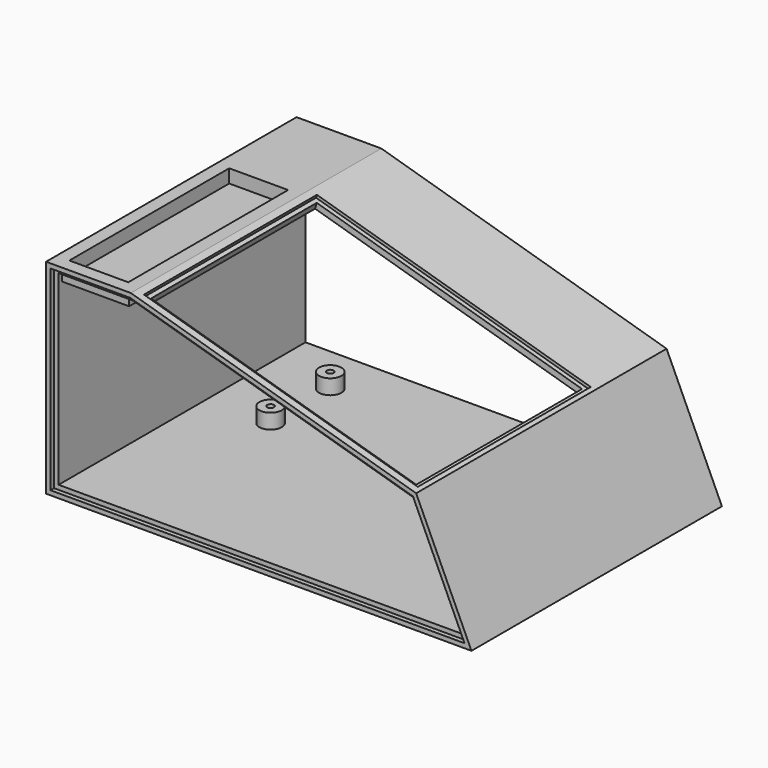
from build123d import *

# Parameters (mm, degrees)
F2_DEPTH        = 210
F4_W            = 185.4063174448
F4_H            = 139
F5_DEPTH        = 6
F4_W_2          = 191.4063174448
F4_H_2          = 145
F6_DEPTH        = 2
F7_W            = 45.5
F7_H            = 140.02
F7_W_2          = 39.5
F7_H_2          = 134.02
F8_DEPTH        = 12
F9_DEPTH        = 9
F10_DEPTH       = 3
F3_R            = 7.5
F11_DEPTH       = 16
F12_D           = 4.5
F12_DEPTH       = 40
F12_CBORE_D     = 8
F12_CBORE_DEPTH = 4.5
F12_TIP         = 1.3519363928


with BuildPart() as f2:
    # F1 (on Front) → F2 (new body)
    with BuildSketch(Plane.XZ):
        Polygon((50.8599747535, 131), (-6, 131), (-6, -6), (279.3492325705, -6), (242.2383099785, 74.989177444), align=None)
        Polygon((240.0814283237, 72.494588722), (274.6746162852, -3), (-3, -3), (-3, 128), (50.4299873767, 128), align=None, mode=Mode.SUBTRACT)
        Polygon((-3, -3), (274.6746162852, -3), (240.0814283237, 72.494588722), (50.4299873767, 128), (-3, 128), align=None)
        Polygon((270, 0), (0, 0), (0, 125), (50, 125), (237.9245466688, 70), align=None, mode=Mode.SUBTRACT)
    extrude(amount=-F2_DEPTH)

    # F4 (on face) → F5 (cut, through all)
    with BuildSketch(Plane(origin=(39.3276682275, 0, 134.3751676945), x_dir=(0.9597405823, 0, -0.280887904), z_dir=(0.280887904, 0, 0.9597405823))):
        with Locations((112.7192250827, 77.5)):
            Rectangle(F4_W, F4_H)
    extrude(amount=-F5_DEPTH, mode=Mode.SUBTRACT)

    # F4 (on face) → F6 (cut)
    with BuildSketch(Plane(origin=(39.3276682275, 0, 134.3751676945), x_dir=(0.9597405823, 0, -0.280887904), z_dir=(0.280887904, 0, 0.9597405823))):
        with Locations((112.7192250827, 77.5)):
            Rectangle(F4_W_2, F4_H_2)
        with Locations((112.7192250827, 77.5)):
            Rectangle(F4_W, F4_H, mode=Mode.SUBTRACT)
    extrude(amount=-F6_DEPTH, mode=Mode.SUBTRACT)

    # F7 (on face) → F8 (join)
    with BuildSketch(Plane.XY.offset(131)):
        with Locations((22.4299873767, 75.6899873767)):
            Rectangle(F7_W, F7_H)
        with Locations((22.4299873767, 75.6899873767)):
            Rectangle(F7_W_2, F7_H_2, mode=Mode.SUBTRACT)
        with Locations((22.4299873767, 75.6899873767)):
            Rectangle(F7_W_2, F7_H_2)
    extrude(amount=-F8_DEPTH)

    # F7 (on face) → F9 (cut)
    with BuildSketch(Plane.XY.offset(131)):
        with Locations((22.4299873767, 75.6899873767)):
            Rectangle(F7_W_2, F7_H_2)
    extrude(amount=-F9_DEPTH, mode=Mode.SUBTRACT)

    # F1 (on Front) → F10 (cut)
    with BuildSketch(Plane.XZ):
        Polygon((-3, -3), (274.6746162852, -3), (240.0814283237, 72.494588722), (50.4299873767, 128), (-3, 128), align=None)
        Polygon((270, 0), (0, 0), (0, 125), (50, 125), (237.9245466688, 70), align=None, mode=Mode.SUBTRACT)
    extrude(amount=-F10_DEPTH, mode=Mode.SUBTRACT)

    # F3 (on face) → F11 (join)
    with BuildSketch(Plane(origin=(0, 0, -6), x_dir=(1, 0, 0), z_dir=(0, 0, -1))):
        with Locations((192.9705612659, -177.0294387341)):
            Circle(F3_R)
        with Locations((192.9705612659, -127.0294387341)):
            Circle(F3_R)
        with Locations((42.9705612659, -177.0294387341)):
            Circle(F3_R)
        with Locations((42.9705612659, -127.0294387341)):
            Circle(F3_R)
    extrude(amount=-F11_DEPTH)

    # F12
    with Locations(Plane(origin=(0, 0, -6), x_dir=(1, 0, 0), z_dir=(0, 0, -1))):
        with Locations((192.9705612659, -127.0294387341), (192.9705612659, -177.0294387341), (42.9705612659, -177.0294387341), (42.9705612659, -127.0294387341)):
            CounterBoreHole(F12_D / 2, F12_CBORE_D / 2, F12_CBORE_DEPTH, depth=F12_DEPTH)
            with Locations((0, 0, -(F12_DEPTH + F12_TIP / 2))):  # 118° drill point
                Cone(0, F12_D / 2, F12_TIP, mode=Mode.SUBTRACT)


solid = f2.part
